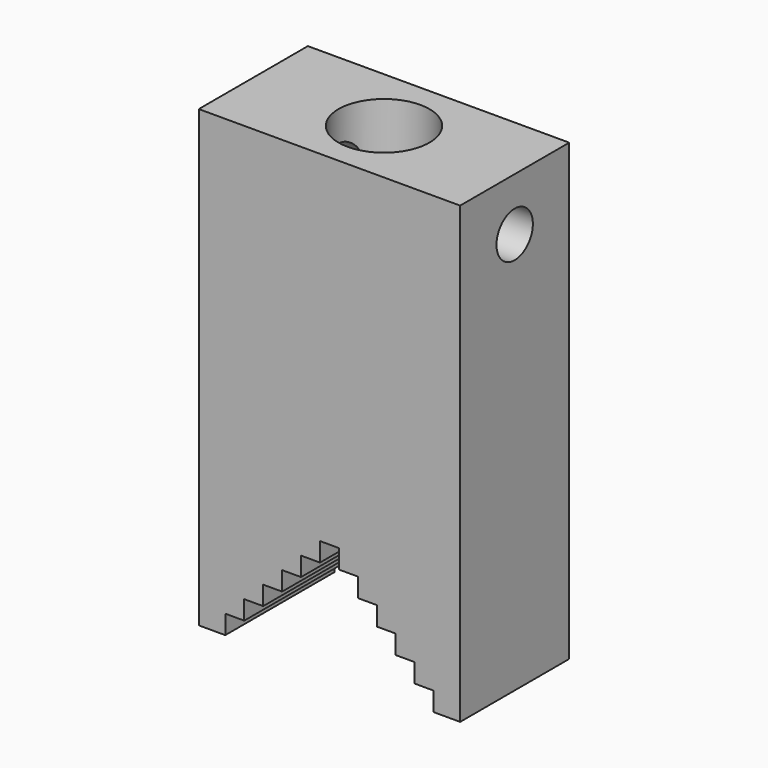
from build123d import *

# Parameters (mm, degrees)
F1_DEPTH = 9
F2_R     = 3
F3_DEPTH = 35


with BuildPart() as f1:
    # F0 (on Front) → F1 (new body, symmetric)
    with BuildSketch(Plane.XZ):
        Polygon((17.25, -30), (17.25, 30), (-17.25, 30), (-17.25, -30), (-13.75, -30), (-13.75, -27.5), (-11.25, -27.5), (-11.25, -25), (-8.75, -25), (-8.75, -22.5), (-6.25, -22.5), (-6.25, -20), (-3.75, -20), (-3.75, -17.5), (-1.25, -17.5), (-1.25, -15), (1.25, -15), (1.25, -17.5), (3.75, -17.5), (3.75, -20), (6.25, -20), (6.25, -22.5), (8.75, -22.5), (8.75, -25), (11.25, -25), (11.25, -27.5), (13.75, -27.5), (13.75, -30), align=None)
    extrude(amount=F1_DEPTH, both=True)

    # F2 (on face) → F3 (cut)
    with BuildSketch(Plane.YZ.offset(17.25)):
        with Locations((0, 23)):
            Circle(F2_R)
    extrude(amount=-F3_DEPTH, mode=Mode.SUBTRACT)

    # F5 (on mid) → F6 (revolve, cut)
    with BuildSketch(Plane.XZ):
        Polygon((0, 30), (-6, 30), (-6, 10), (0, 5.640744832), align=None)
    revolve(axis=Axis((0, 0, 17.820372416), (0, 0, 1)), mode=Mode.SUBTRACT)


solid = f1.part
